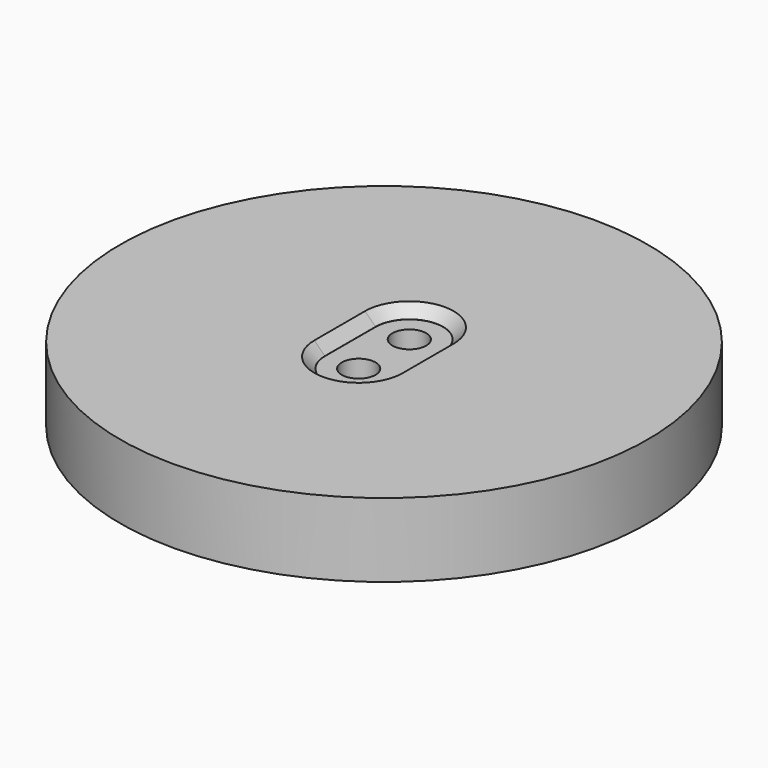
from build123d import *

# Parameters (mm, degrees)
SKETCH044_R        = 1.6
POCKET029_DEPTH    = 14.001
POCKET030_DEPTH    = 1
CHAMFER026025_SIZE = 0.99


with BuildPart() as part:
    # Sketch043 → Revolution001 (revolve)
    with BuildSketch(Plane.YZ):
        Polygon((-6.05, 0), (-6.05, 10.5), (0, 10.5), (0, 14), (-25, 14), (-25, 7), (-22, 7), (-21, 8), (-15, 8), (-14, 7), (-9.05, 7), (-7.05, 0), align=None)
    revolve(axis=Axis((0, 0, 0), (0, 0, 1)))

    # Sketch044 (on Face3 of Revolution001) → Pocket029 (cut, through all)
    with BuildSketch(Plane(origin=(0, 0, 14), x_dir=(0, -1, 0), z_dir=(0, 0, 1))):
        with Locations((-3, 0)):
            Circle(SKETCH044_R)
        with Locations((3, 0)):
            Circle(SKETCH044_R)
    extrude(amount=-POCKET029_DEPTH, mode=Mode.SUBTRACT)

    # Sketch045 (on Face8 of Pocket029) → Pocket030 (cut)
    with BuildSketch(Plane(origin=(0, 0, 14), x_dir=(0, -1, 0), z_dir=(0, 0, 1))):
        with BuildLine():
            ThreePointArc((-3, 3.2), (-6.2, 0), (-3, -3.2))
            Line((-3, -3.2), (3, -3.2))
            ThreePointArc((3, -3.2), (6.2, 0), (3, 3.2))
            Line((-3, 3.2), (3, 3.2))
        make_face()
    extrude(amount=-POCKET030_DEPTH, mode=Mode.SUBTRACT)

    # Chamfer026025
    chamfer026025_edges = [part.edges().sort_by_distance(p)[0] for p in [
        (0, -6.2, 14),
        (-3.2, 0, 14),
        (0, 6.2, 14),
        (3.2, 0, 14),
    ]]
    chamfer(chamfer026025_edges, length=CHAMFER026025_SIZE)


with BuildPart() as part_1:
    # Body001001001002003010002 placement: moved
    add(part.part.moved(Location((0, 0, 45))))


solid = part_1.part
